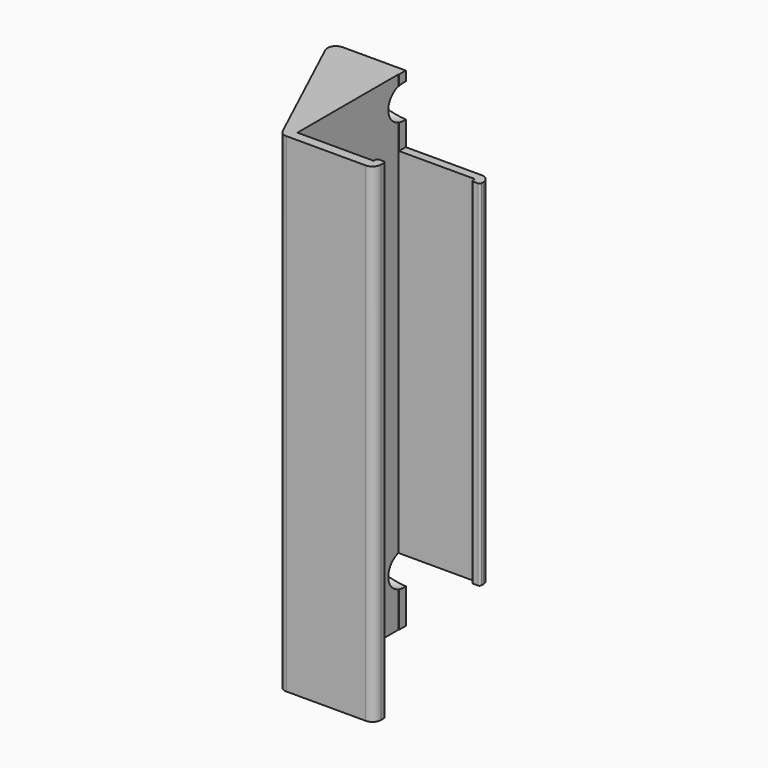
from build123d import *

# Parameters (mm, degrees)
PAD_DEPTH       = 116
SKETCH001_R     = 1.75
POCKET_DEPTH    = 17.6055143834
SKETCH002_R     = 4
POCKET001_DEPTH = 14
SKETCH003_W     = 20
SKETCH003_H     = 16
POCKET002_DEPTH = 5
FILLET_R        = 2
FILLET001_R     = 2
FILLET002_R     = 0.5
FILLET003_R     = 0.5


with BuildPart() as part:
    # Sketch (on XY_Plane of Origin) → Pad (new body)
    with BuildSketch(Plane.XY):
        Polygon((10.1949841474, 13.6874291489), (-11.9050158526, 13.6874291489), (-27.9319746193, 13.6874291489), (-11.9050158526, -20.6824948412), (10.1949841474, -20.6824948412), (10.1949841474, -18.6824948412), (10.1949841474, -17.3125708511), (8.1949841474, -17.3125708511), (8.1949841474, -18.3125708511), (-9.9050158526, -18.3125708511), (-9.9050158526, 11.6874291489), (8.1949841474, 11.6874291489), (8.1949841474, 10.6874291489), (10.1949841474, 10.6874291489), align=None)
    extrude(amount=PAD_DEPTH)

    # Sketch001 (on Face10 of Pad) → Pocket (cut)
    with BuildSketch(Plane(origin=(-17.7005613893, -8.2539073295, 0), x_dir=(0.4226182617, -0.906307787, 0), z_dir=(-0.906307787, -0.4226182617, 0))):
        with Locations((-16, 109.75)):
            Circle(SKETCH001_R)
        with Locations((-16, 12.25)):
            Circle(SKETCH001_R)
    extrude(amount=-POCKET_DEPTH, mode=Mode.SUBTRACT)

    # Sketch002 (on Face12 of Pocket) → Pocket001 (cut)
    with BuildSketch(Plane(origin=(2.2382099255, 1.0436944288, 0), x_dir=(0.4226182617, -0.906307787, 0), z_dir=(-0.906307787, -0.4226182617, 0))):
        with Locations((-16, 109.75)):
            Circle(SKETCH002_R)
        with Locations((-16, 12.25)):
            Circle(SKETCH002_R)
    extrude(amount=POCKET001_DEPTH, mode=Mode.SUBTRACT)

    # Sketch003 (on Face11 of Pocket001) → Pocket002 (cut)
    with BuildSketch(Plane(origin=(0, 13.6874291489, 0), x_dir=(-1, 0, 0), z_dir=(0, 1, 0))):
        with Locations((-0.1949841474, 8)):
            Rectangle(SKETCH003_W, SKETCH003_H)
        with Locations((-0.1949841474, 108)):
            Rectangle(SKETCH003_W, SKETCH003_H)
    extrude(amount=-POCKET002_DEPTH, mode=Mode.SUBTRACT)

    # Fillet
    fillet_edges = [part.edges().sort_by_distance(p)[0] for p in [
        (-27.931975, 13.687429, 58),
        (-11.905016, -20.682495, 58),
    ]]
    fillet(fillet_edges, radius=FILLET_R)

    # Fillet001
    fillet001_edges = [part.edges().sort_by_distance(p)[0] for p in [
        (10.194984, -20.682495, 58),
        (10.194984, 13.687429, 58),
    ]]
    fillet(fillet001_edges, radius=FILLET001_R)

    # Fillet002
    fillet002_edges = [part.edges().sort_by_distance(p)[0] for p in [
        (8.194984, 10.687429, 58),
        (8.194984, -17.312571, 58),
    ]]
    fillet(fillet002_edges, radius=FILLET002_R)

    # Fillet003
    fillet003_edges = [part.edges().sort_by_distance(p)[0] for p in [
        (10.194984, 10.687429, 58),
        (10.194984, -17.312571, 58),
    ]]
    fillet(fillet003_edges, radius=FILLET003_R)


solid = part.part
